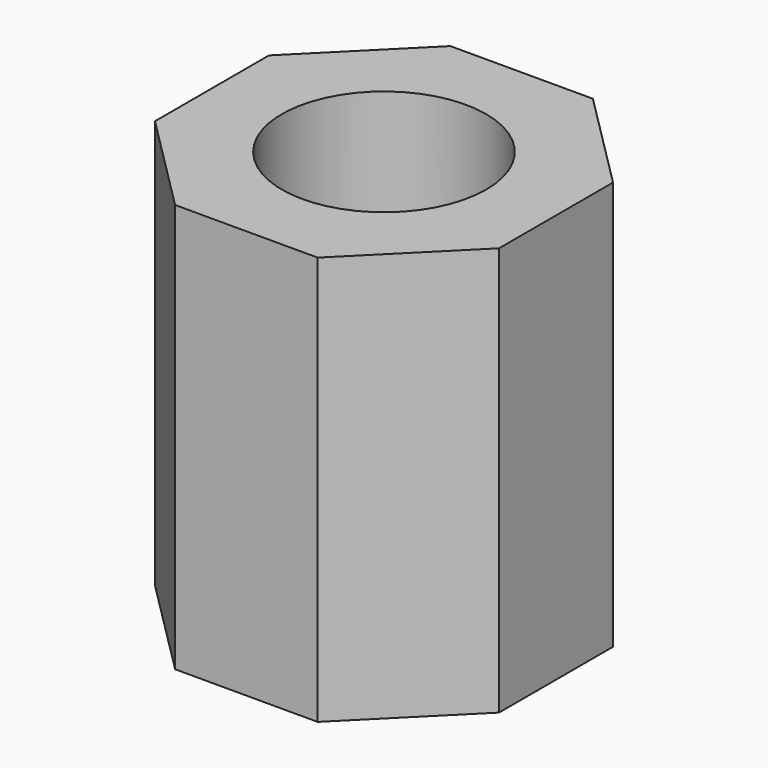
from build123d import *

# Parameters (mm, degrees)
PAD_DEPTH    = 9
SKETCH001_R  = 2.25
POCKET_DEPTH = 9.001


with BuildPart() as part:
    # Sketch → Pad (new body)
    with BuildSketch(Plane.XY):
        Polygon((1.569002, -3.787906), (3.787906, -1.569002), (3.787906, 1.569002), (1.569002, 3.787906), (-1.569002, 3.787906), (-3.787906, 1.569002), (-3.787906, -1.569002), (-1.569002, -3.787906), align=None)
    extrude(amount=PAD_DEPTH)

    # Sketch001 (on Face10 of Pad) → Pocket (cut, through all)
    with BuildSketch(Plane.XY.offset(9)):
        Circle(SKETCH001_R)
    extrude(amount=-POCKET_DEPTH, mode=Mode.SUBTRACT)


solid = part.part
